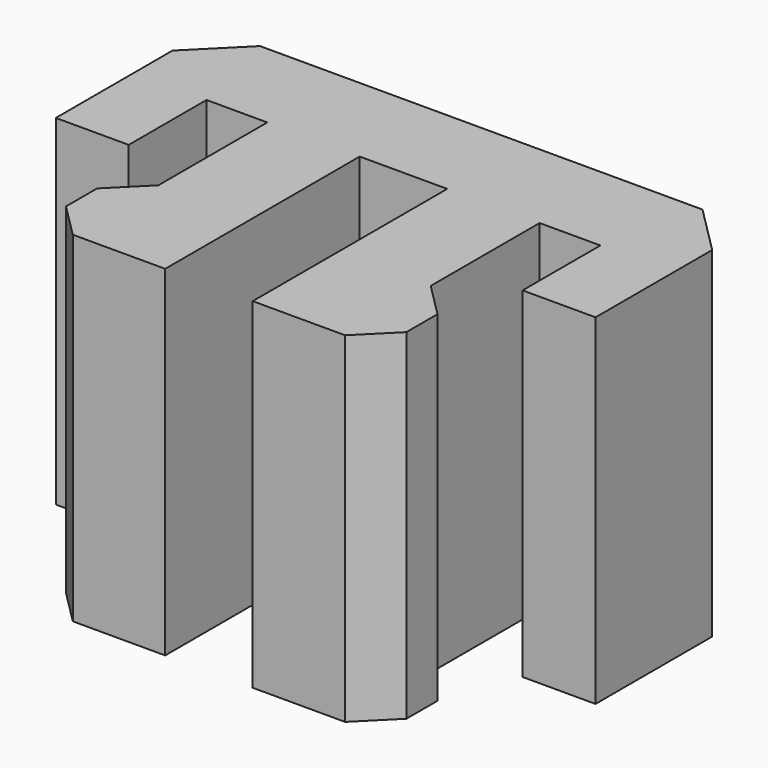
from build123d import *

# Parameters (mm, degrees)
F1_DEPTH = 7
F2_SIZE  = 1


with BuildPart() as f1:
    # F0 (on Top) → F1 (new body)
    with BuildSketch(Plane.XY):
        Polygon((-0.9, -5), (-0.9, 0), (-2.8, 0), (-2.8, -2.8), (-2.8, -5), align=None)
        Polygon((-2.8, 0), (-0.9, 0), (0.9, 0), (2.8, 0), (4.05, 0), (4.05, -2), (5.55, -2), (5.55, 2), (0, 2), (-5.55, 2), (-5.55, -2), (-4.05, -2), (-4.05, 0), align=None)
        Polygon((2.8, 0), (0.9, 0), (0.9, -5), (2.8, -5), (2.8, -2.8), align=None)
        Polygon((-2.8, -5), (-2.8, -2.8), (-3.5, -3.5), (-3.5, -4.3), align=None)
        Polygon((2.8, -2.8), (2.8, -5), (3.5, -4.3), (3.5, -3.5), align=None)
    extrude(amount=F1_DEPTH)

    # F2
    f2_edges = [f1.edges().sort_by_distance(p)[0] for p in [
        (-5.55, 2, 3.5),
        (5.55, 2, 3.5),
    ]]
    chamfer(f2_edges, length=F2_SIZE)


solid = f1.part
